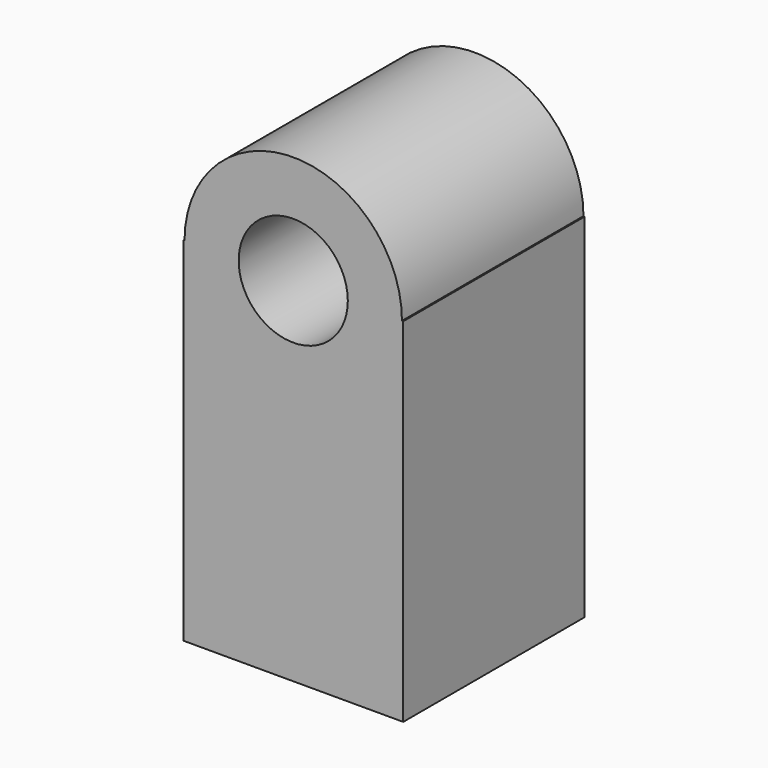
from build123d import *

# Parameters (mm, degrees)
F0_R     = 18.326203
F1_DEPTH = 76.2


with BuildPart() as f1:
    # F0 (on Front) → F1 (new body)
    with BuildSketch(Plane.XZ):
        with BuildLine():
            Line((-36.937352, -59.221871), (36.937352, -59.221871))
            Line((36.937352, -59.221871), (36.937352, 59.221871))
            Line((36.937352, 59.221871), (36.516143, 59.221871))
            ThreePointArc((36.516143, 59.221871), (0, 95.738014), (-36.516143, 59.221871))
            Line((-36.516143, 59.221871), (-36.937352, 59.221871))
            Line((-36.937352, 59.221871), (-36.937352, -59.221871))
        make_face()
        with Locations((0, 59.221871)):
            Circle(F0_R, mode=Mode.SUBTRACT)
    extrude(amount=F1_DEPTH)


solid = f1.part
